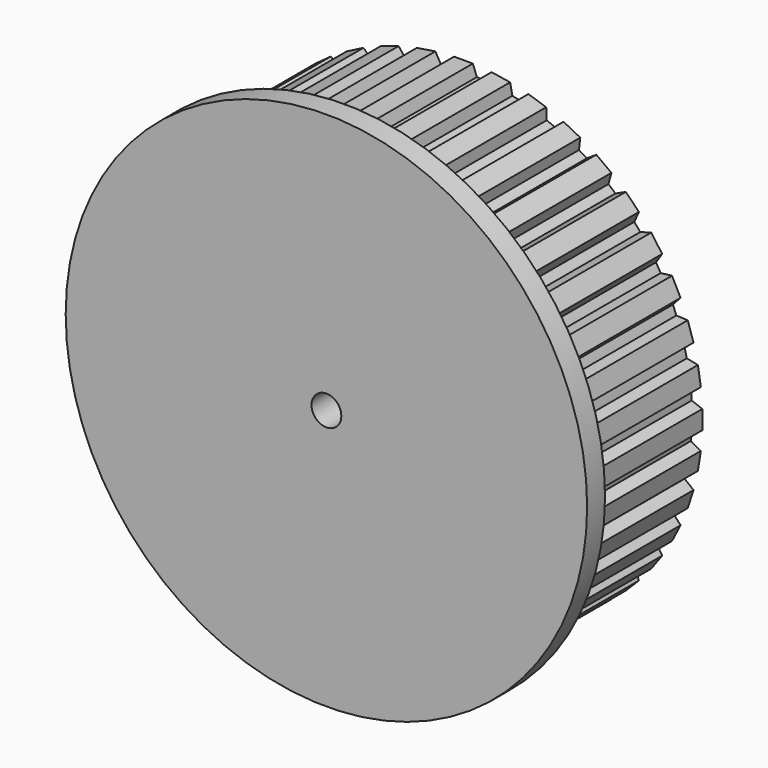
from build123d import *

# Parameters (mm, degrees)
F0_R     = 2
F1_DEPTH = 20
F2_R     = 35
F2_R_2   = 2
F3_DEPTH = 3


with BuildPart() as f1:
    # F0 (on Front) → F1 (new body)
    with BuildSketch(Plane.XZ):
        with BuildLine():
            ThreePointArc((30.632544, -1.793454), (30.671883, -0.89711), (30.685, 0))
            ThreePointArc((30.685, 0), (30.671883, 0.89711), (30.632544, 1.793454))
            ThreePointArc((30.632544, 1.793454), (30.590408, 2.407517), (30.535964, 3.020612))
            ThreePointArc((30.535964, 3.020612), (30.307217, 4.800192), (29.974849, 6.563359))
            ThreePointArc((29.974849, 6.563359), (29.837171, 7.163271), (29.687488, 7.760301))
            ThreePointArc((29.687488, 7.760301), (29.183169, 9.482186), (28.579073, 11.171652))
            ThreePointArc((28.579073, 11.171652), (28.349243, 11.742641), (28.108007, 12.308905))
            ThreePointArc((28.108007, 12.308905), (27.340535, 13.930698), (26.479586, 15.504863))
            ThreePointArc((26.479586, 15.504863), (26.163263, 16.032868), (25.836414, 16.554423))
            ThreePointArc((25.836414, 16.554423), (24.824686, 18.03619), (23.728083, 19.456292))
            ThreePointArc((23.728083, 19.456292), (23.333057, 19.928313), (22.928643, 20.392316))
            ThreePointArc((22.928643, 20.392316), (21.697572, 21.697572), (20.392316, 22.928643))
            ThreePointArc((20.392316, 22.928643), (19.928313, 23.333057), (19.456292, 23.728083))
            ThreePointArc((19.456292, 23.728083), (18.03619, 24.824686), (16.554423, 25.836414))
            ThreePointArc((16.554423, 25.836414), (16.032868, 26.163263), (15.504863, 26.479586))
            ThreePointArc((15.504863, 26.479586), (13.930698, 27.340535), (12.308905, 28.108007))
            ThreePointArc((12.308905, 28.108007), (11.742641, 28.349243), (11.171652, 28.579073))
            ThreePointArc((11.171652, 28.579073), (9.482186, 29.183169), (7.760301, 29.687488))
            ThreePointArc((7.760301, 29.687488), (7.163271, 29.837171), (6.563359, 29.974849))
            ThreePointArc((6.563359, 29.974849), (4.800192, 30.307217), (3.020612, 30.535964))
            ThreePointArc((3.020612, 30.535964), (2.407517, 30.590408), (1.793454, 30.632544))
            ThreePointArc((1.793454, 30.632544), (0, 30.685), (-1.793454, 30.632544))
            ThreePointArc((-1.793454, 30.632544), (-2.407517, 30.590408), (-3.020612, 30.535964))
            ThreePointArc((-3.020612, 30.535964), (-4.800192, 30.307217), (-6.563359, 29.974849))
            ThreePointArc((-6.563359, 29.974849), (-7.163271, 29.837171), (-7.760301, 29.687488))
            ThreePointArc((-7.760301, 29.687488), (-9.482186, 29.183169), (-11.171652, 28.579073))
            ThreePointArc((-11.171652, 28.579073), (-11.742641, 28.349243), (-12.308905, 28.108007))
            ThreePointArc((-12.308905, 28.108007), (-13.930698, 27.340535), (-15.504863, 26.479586))
            ThreePointArc((-15.504863, 26.479586), (-16.032868, 26.163263), (-16.554423, 25.836414))
            ThreePointArc((-16.554423, 25.836414), (-18.03619, 24.824686), (-19.456292, 23.728083))
            ThreePointArc((-19.456292, 23.728083), (-19.928313, 23.333057), (-20.392316, 22.928643))
            ThreePointArc((-20.392316, 22.928643), (-21.697572, 21.697572), (-22.928643, 20.392316))
            ThreePointArc((-22.928643, 20.392316), (-23.333057, 19.928313), (-23.728083, 19.456292))
            ThreePointArc((-23.728083, 19.456292), (-24.824686, 18.03619), (-25.836414, 16.554423))
            ThreePointArc((-25.836414, 16.554423), (-26.163263, 16.032868), (-26.479586, 15.504863))
            ThreePointArc((-26.479586, 15.504863), (-27.340535, 13.930698), (-28.108007, 12.308905))
            ThreePointArc((-28.108007, 12.308905), (-28.349243, 11.742641), (-28.579073, 11.171652))
            ThreePointArc((-28.579073, 11.171652), (-29.183169, 9.482186), (-29.687488, 7.760301))
            ThreePointArc((-29.687488, 7.760301), (-29.837171, 7.163271), (-29.974849, 6.563359))
            ThreePointArc((-29.974849, 6.563359), (-30.307217, 4.800192), (-30.535964, 3.020612))
            ThreePointArc((-30.535964, 3.020612), (-30.590408, 2.407517), (-30.632544, 1.793454))
            ThreePointArc((-30.632544, 1.793454), (-30.685, 0), (-30.632544, -1.793454))
            ThreePointArc((-30.632544, -1.793454), (-30.590408, -2.407517), (-30.535964, -3.020612))
            ThreePointArc((-30.535964, -3.020612), (-30.307217, -4.800192), (-29.974849, -6.563359))
            ThreePointArc((-29.974849, -6.563359), (-29.837171, -7.163271), (-29.687488, -7.760301))
            ThreePointArc((-29.687488, -7.760301), (-29.183169, -9.482186), (-28.579073, -11.171652))
            ThreePointArc((-28.579073, -11.171652), (-28.349243, -11.742641), (-28.108007, -12.308905))
            ThreePointArc((-28.108007, -12.308905), (-27.340535, -13.930698), (-26.479586, -15.504863))
            ThreePointArc((-26.479586, -15.504863), (-26.163263, -16.032868), (-25.836414, -16.554423))
            ThreePointArc((-25.836414, -16.554423), (-24.824686, -18.03619), (-23.728083, -19.456292))
            ThreePointArc((-23.728083, -19.456292), (-23.333057, -19.928313), (-22.928643, -20.392316))
            ThreePointArc((-22.928643, -20.392316), (-21.697572, -21.697572), (-20.392316, -22.928643))
            ThreePointArc((-20.392316, -22.928643), (-19.928313, -23.333057), (-19.456292, -23.728083))
            ThreePointArc((-19.456292, -23.728083), (-18.03619, -24.824686), (-16.554423, -25.836414))
            ThreePointArc((-16.554423, -25.836414), (-16.032868, -26.163263), (-15.504863, -26.479586))
            ThreePointArc((-15.504863, -26.479586), (-13.930698, -27.340535), (-12.308905, -28.108007))
            ThreePointArc((-12.308905, -28.108007), (-11.742641, -28.349243), (-11.171652, -28.579073))
            ThreePointArc((-11.171652, -28.579073), (-9.482186, -29.183169), (-7.760301, -29.687488))
            ThreePointArc((-7.760301, -29.687488), (-7.163271, -29.837171), (-6.563359, -29.974849))
            ThreePointArc((-6.563359, -29.974849), (-4.800192, -30.307217), (-3.020612, -30.535964))
            ThreePointArc((-3.020612, -30.535964), (-2.407517, -30.590408), (-1.793454, -30.632544))
            ThreePointArc((-1.793454, -30.632544), (0, -30.685), (1.793454, -30.632544))
            ThreePointArc((1.793454, -30.632544), (2.407517, -30.590408), (3.020612, -30.535964))
            ThreePointArc((3.020612, -30.535964), (4.800192, -30.307217), (6.563359, -29.974849))
            ThreePointArc((6.563359, -29.974849), (7.163271, -29.837171), (7.760301, -29.687488))
            ThreePointArc((7.760301, -29.687488), (9.482186, -29.183169), (11.171652, -28.579073))
            ThreePointArc((11.171652, -28.579073), (11.742641, -28.349243), (12.308905, -28.108007))
            ThreePointArc((12.308905, -28.108007), (13.930698, -27.340535), (15.504863, -26.479586))
            ThreePointArc((15.504863, -26.479586), (16.032868, -26.163263), (16.554423, -25.836414))
            ThreePointArc((16.554423, -25.836414), (18.03619, -24.824686), (19.456292, -23.728083))
            ThreePointArc((19.456292, -23.728083), (19.928313, -23.333057), (20.392316, -22.928643))
            ThreePointArc((20.392316, -22.928643), (21.697572, -21.697572), (22.928643, -20.392316))
            ThreePointArc((22.928643, -20.392316), (23.333057, -19.928313), (23.728083, -19.456292))
            ThreePointArc((23.728083, -19.456292), (24.824686, -18.03619), (25.836414, -16.554423))
            ThreePointArc((25.836414, -16.554423), (26.163263, -16.032868), (26.479586, -15.504863))
            ThreePointArc((26.479586, -15.504863), (27.340535, -13.930698), (28.108007, -12.308905))
            ThreePointArc((28.108007, -12.308905), (28.349243, -11.742641), (28.579073, -11.171652))
            ThreePointArc((28.579073, -11.171652), (29.183169, -9.482186), (29.687488, -7.760301))
            ThreePointArc((29.687488, -7.760301), (29.837171, -7.163271), (29.974849, -6.563359))
            ThreePointArc((29.974849, -6.563359), (30.307217, -4.800192), (30.535964, -3.020612))
            ThreePointArc((30.535964, -3.020612), (30.590408, -2.407517), (30.632544, -1.793454))
        make_face()
        Circle(F0_R, mode=Mode.SUBTRACT)
        with BuildLine():
            ThreePointArc((30.632544, 1.793454), (30.671883, 0.89711), (30.685, 0))
            ThreePointArc((30.685, 0), (30.671883, -0.89711), (30.632544, -1.793454))
            Line((30.632544, -1.793454), (32.060264, -1.259651))
            Line((32.060264, -1.259651), (32.060264, 1.259651))
            Line((32.060264, 1.259651), (30.632544, 1.793454))
        make_face()
        with BuildLine():
            ThreePointArc((29.974849, 6.563359), (30.307217, 4.800192), (30.535964, 3.020612))
            Line((30.535964, 3.020612), (31.862601, 3.771187))
            Line((31.862601, 3.771187), (31.468496, 6.259473))
            Line((31.468496, 6.259473), (29.974849, 6.563359))
        make_face()
        with BuildLine():
            Line((31.862601, -3.771187), (30.535964, -3.020612))
            ThreePointArc((30.535964, -3.020612), (30.307217, -4.800192), (29.974849, -6.563359))
            Line((29.974849, -6.563359), (31.468496, -6.259473))
            Line((31.468496, -6.259473), (31.862601, -3.771187))
        make_face()
        with BuildLine():
            ThreePointArc((28.579073, 11.171652), (29.183169, 9.482186), (29.687488, 7.760301))
            Line((29.687488, 7.760301), (30.880376, 8.709167))
            Line((30.880376, 8.709167), (30.101869, 11.105166))
            Line((30.101869, 11.105166), (28.579073, 11.171652))
        make_face()
        with BuildLine():
            Line((30.880376, -8.709167), (29.687488, -7.760301))
            ThreePointArc((29.687488, -7.760301), (29.183169, -9.482186), (28.579073, -11.171652))
            Line((28.579073, -11.171652), (30.101869, -11.105166))
            Line((30.101869, -11.105166), (30.880376, -8.709167))
        make_face()
        with BuildLine():
            ThreePointArc((26.479586, 15.504863), (27.340535, 13.930698), (28.108007, 12.308905))
            Line((28.108007, 12.308905), (29.137774, 13.432698))
            Line((29.137774, 13.432698), (27.994034, 15.677413))
            Line((27.994034, 15.677413), (26.479586, 15.504863))
        make_face()
        with BuildLine():
            Line((29.137774, -13.432698), (28.108007, -12.308905))
            ThreePointArc((28.108007, -12.308905), (27.340535, -13.930698), (26.479586, -15.504863))
            Line((26.479586, -15.504863), (27.994034, -15.677413))
            Line((27.994034, -15.677413), (29.137774, -13.432698))
        make_face()
        with BuildLine():
            ThreePointArc((23.728083, 19.456292), (24.824686, 18.03619), (25.836414, 16.554423))
            Line((25.836414, 16.554423), (26.677703, 17.825471))
            Line((26.677703, 17.825471), (25.196894, 19.863629))
            Line((25.196894, 19.863629), (23.728083, 19.456292))
        make_face()
        with BuildLine():
            Line((26.677703, -17.825471), (25.836414, -16.554423))
            ThreePointArc((25.836414, -16.554423), (24.824686, -18.03619), (23.728083, -19.456292))
            Line((23.728083, -19.456292), (25.196894, -19.863629))
            Line((25.196894, -19.863629), (26.677703, -17.825471))
        make_face()
        with BuildLine():
            ThreePointArc((20.392316, 22.928643), (21.697572, 21.697572), (22.928643, 20.392316))
            Line((22.928643, 20.392316), (23.560738, 21.779322))
            Line((23.560738, 21.779322), (21.779322, 23.560738))
            Line((21.779322, 23.560738), (20.392316, 22.928643))
        make_face()
        with BuildLine():
            Line((23.560738, -21.779322), (22.928643, -20.392316))
            ThreePointArc((22.928643, -20.392316), (21.697572, -21.697572), (20.392316, -22.928643))
            Line((20.392316, -22.928643), (21.779322, -23.560738))
            Line((21.779322, -23.560738), (23.560738, -21.779322))
        make_face()
        with BuildLine():
            ThreePointArc((16.554423, 25.836414), (18.03619, 24.824686), (19.456292, 23.728083))
            Line((19.456292, 23.728083), (19.863629, 25.196894))
            Line((19.863629, 25.196894), (17.825471, 26.677703))
            Line((17.825471, 26.677703), (16.554423, 25.836414))
        make_face()
        with BuildLine():
            Line((19.863629, -25.196894), (19.456292, -23.728083))
            ThreePointArc((19.456292, -23.728083), (18.03619, -24.824686), (16.554423, -25.836414))
            Line((16.554423, -25.836414), (17.825471, -26.677703))
            Line((17.825471, -26.677703), (19.863629, -25.196894))
        make_face()
        with BuildLine():
            ThreePointArc((12.308905, 28.108007), (13.930698, 27.340535), (15.504863, 26.479586))
            Line((15.504863, 26.479586), (15.677413, 27.994034))
            Line((15.677413, 27.994034), (13.432698, 29.137774))
            Line((13.432698, 29.137774), (12.308905, 28.108007))
        make_face()
        with BuildLine():
            Line((15.677413, -27.994034), (15.504863, -26.479586))
            ThreePointArc((15.504863, -26.479586), (13.930698, -27.340535), (12.308905, -28.108007))
            Line((12.308905, -28.108007), (13.432698, -29.137774))
            Line((13.432698, -29.137774), (15.677413, -27.994034))
        make_face()
        with BuildLine():
            ThreePointArc((7.760301, 29.687488), (9.482186, 29.183169), (11.171652, 28.579073))
            Line((11.171652, 28.579073), (11.105166, 30.101869))
            Line((11.105166, 30.101869), (8.709167, 30.880376))
            Line((8.709167, 30.880376), (7.760301, 29.687488))
        make_face()
        with BuildLine():
            Line((11.105166, -30.101869), (11.171652, -28.579073))
            ThreePointArc((11.171652, -28.579073), (9.482186, -29.183169), (7.760301, -29.687488))
            Line((7.760301, -29.687488), (8.709167, -30.880376))
            Line((8.709167, -30.880376), (11.105166, -30.101869))
        make_face()
        with BuildLine():
            ThreePointArc((3.020612, 30.535964), (4.800192, 30.307217), (6.563359, 29.974849))
            Line((6.563359, 29.974849), (6.259473, 31.468496))
            Line((6.259473, 31.468496), (3.771187, 31.862601))
            Line((3.771187, 31.862601), (3.020612, 30.535964))
        make_face()
        with BuildLine():
            Line((6.259473, -31.468496), (6.563359, -29.974849))
            ThreePointArc((6.563359, -29.974849), (4.800192, -30.307217), (3.020612, -30.535964))
            Line((3.020612, -30.535964), (3.771187, -31.862601))
            Line((3.771187, -31.862601), (6.259473, -31.468496))
        make_face()
        with BuildLine():
            ThreePointArc((-1.793454, 30.632544), (0, 30.685), (1.793454, 30.632544))
            Line((1.793454, 30.632544), (1.259651, 32.060264))
            Line((1.259651, 32.060264), (-1.259651, 32.060264))
            Line((-1.259651, 32.060264), (-1.793454, 30.632544))
        make_face()
        with BuildLine():
            Line((1.259651, -32.060264), (1.793454, -30.632544))
            ThreePointArc((1.793454, -30.632544), (0, -30.685), (-1.793454, -30.632544))
            Line((-1.793454, -30.632544), (-1.259651, -32.060264))
            Line((-1.259651, -32.060264), (1.259651, -32.060264))
        make_face()
        with BuildLine():
            ThreePointArc((-6.563359, 29.974849), (-4.800192, 30.307217), (-3.020612, 30.535964))
            Line((-3.020612, 30.535964), (-3.771187, 31.862601))
            Line((-3.771187, 31.862601), (-6.259473, 31.468496))
            Line((-6.259473, 31.468496), (-6.563359, 29.974849))
        make_face()
        with BuildLine():
            Line((-3.771187, -31.862601), (-3.020612, -30.535964))
            ThreePointArc((-3.020612, -30.535964), (-4.800192, -30.307217), (-6.563359, -29.974849))
            Line((-6.563359, -29.974849), (-6.259473, -31.468496))
            Line((-6.259473, -31.468496), (-3.771187, -31.862601))
        make_face()
        with BuildLine():
            ThreePointArc((-11.171652, 28.579073), (-9.482186, 29.183169), (-7.760301, 29.687488))
            Line((-7.760301, 29.687488), (-8.709167, 30.880376))
            Line((-8.709167, 30.880376), (-11.105166, 30.101869))
            Line((-11.105166, 30.101869), (-11.171652, 28.579073))
        make_face()
        with BuildLine():
            Line((-8.709167, -30.880376), (-7.760301, -29.687488))
            ThreePointArc((-7.760301, -29.687488), (-9.482186, -29.183169), (-11.171652, -28.579073))
            Line((-11.171652, -28.579073), (-11.105166, -30.101869))
            Line((-11.105166, -30.101869), (-8.709167, -30.880376))
        make_face()
        with BuildLine():
            ThreePointArc((-15.504863, 26.479586), (-13.930698, 27.340535), (-12.308905, 28.108007))
            Line((-12.308905, 28.108007), (-13.432698, 29.137774))
            Line((-13.432698, 29.137774), (-15.677413, 27.994034))
            Line((-15.677413, 27.994034), (-15.504863, 26.479586))
        make_face()
        with BuildLine():
            Line((-13.432698, -29.137774), (-12.308905, -28.108007))
            ThreePointArc((-12.308905, -28.108007), (-13.930698, -27.340535), (-15.504863, -26.479586))
            Line((-15.504863, -26.479586), (-15.677413, -27.994034))
            Line((-15.677413, -27.994034), (-13.432698, -29.137774))
        make_face()
        with BuildLine():
            ThreePointArc((-19.456292, 23.728083), (-18.03619, 24.824686), (-16.554423, 25.836414))
            Line((-16.554423, 25.836414), (-17.825471, 26.677703))
            Line((-17.825471, 26.677703), (-19.863629, 25.196894))
            Line((-19.863629, 25.196894), (-19.456292, 23.728083))
        make_face()
        with BuildLine():
            Line((-17.825471, -26.677703), (-16.554423, -25.836414))
            ThreePointArc((-16.554423, -25.836414), (-18.03619, -24.824686), (-19.456292, -23.728083))
            Line((-19.456292, -23.728083), (-19.863629, -25.196894))
            Line((-19.863629, -25.196894), (-17.825471, -26.677703))
        make_face()
        with BuildLine():
            ThreePointArc((-22.928643, 20.392316), (-21.697572, 21.697572), (-20.392316, 22.928643))
            Line((-20.392316, 22.928643), (-21.779322, 23.560738))
            Line((-21.779322, 23.560738), (-23.560738, 21.779322))
            Line((-23.560738, 21.779322), (-22.928643, 20.392316))
        make_face()
        with BuildLine():
            Line((-21.779322, -23.560738), (-20.392316, -22.928643))
            ThreePointArc((-20.392316, -22.928643), (-21.697572, -21.697572), (-22.928643, -20.392316))
            Line((-22.928643, -20.392316), (-23.560738, -21.779322))
            Line((-23.560738, -21.779322), (-21.779322, -23.560738))
        make_face()
        with BuildLine():
            ThreePointArc((-25.836414, 16.554423), (-24.824686, 18.03619), (-23.728083, 19.456292))
            Line((-23.728083, 19.456292), (-25.196894, 19.863629))
            Line((-25.196894, 19.863629), (-26.677703, 17.825471))
            Line((-26.677703, 17.825471), (-25.836414, 16.554423))
        make_face()
        with BuildLine():
            Line((-25.196894, -19.863629), (-23.728083, -19.456292))
            ThreePointArc((-23.728083, -19.456292), (-24.824686, -18.03619), (-25.836414, -16.554423))
            Line((-25.836414, -16.554423), (-26.677703, -17.825471))
            Line((-26.677703, -17.825471), (-25.196894, -19.863629))
        make_face()
        with BuildLine():
            ThreePointArc((-28.108007, 12.308905), (-27.340535, 13.930698), (-26.479586, 15.504863))
            Line((-26.479586, 15.504863), (-27.994034, 15.677413))
            Line((-27.994034, 15.677413), (-29.137774, 13.432698))
            Line((-29.137774, 13.432698), (-28.108007, 12.308905))
        make_face()
        with BuildLine():
            Line((-27.994034, -15.677413), (-26.479586, -15.504863))
            ThreePointArc((-26.479586, -15.504863), (-27.340535, -13.930698), (-28.108007, -12.308905))
            Line((-28.108007, -12.308905), (-29.137774, -13.432698))
            Line((-29.137774, -13.432698), (-27.994034, -15.677413))
        make_face()
        with BuildLine():
            ThreePointArc((-29.687488, 7.760301), (-29.183169, 9.482186), (-28.579073, 11.171652))
            Line((-28.579073, 11.171652), (-30.101869, 11.105166))
            Line((-30.101869, 11.105166), (-30.880376, 8.709167))
            Line((-30.880376, 8.709167), (-29.687488, 7.760301))
        make_face()
        with BuildLine():
            Line((-30.101869, -11.105166), (-28.579073, -11.171652))
            ThreePointArc((-28.579073, -11.171652), (-29.183169, -9.482186), (-29.687488, -7.760301))
            Line((-29.687488, -7.760301), (-30.880376, -8.709167))
            Line((-30.880376, -8.709167), (-30.101869, -11.105166))
        make_face()
        with BuildLine():
            ThreePointArc((-30.535964, 3.020612), (-30.307217, 4.800192), (-29.974849, 6.563359))
            Line((-29.974849, 6.563359), (-31.468496, 6.259473))
            Line((-31.468496, 6.259473), (-31.862601, 3.771187))
            Line((-31.862601, 3.771187), (-30.535964, 3.020612))
        make_face()
        with BuildLine():
            Line((-31.468496, -6.259473), (-29.974849, -6.563359))
            ThreePointArc((-29.974849, -6.563359), (-30.307217, -4.800192), (-30.535964, -3.020612))
            Line((-30.535964, -3.020612), (-31.862601, -3.771187))
            Line((-31.862601, -3.771187), (-31.468496, -6.259473))
        make_face()
        with BuildLine():
            ThreePointArc((-30.632544, -1.793454), (-30.685, 0), (-30.632544, 1.793454))
            Line((-30.632544, 1.793454), (-32.060264, 1.259651))
            Line((-32.060264, 1.259651), (-32.060264, -1.259651))
            Line((-32.060264, -1.259651), (-30.632544, -1.793454))
        make_face()
    extrude(amount=F1_DEPTH)

    # F2 (on face) → F3 (join)
    with BuildSketch(Plane.XZ.offset(20)):
        Circle(F2_R)
        Circle(F2_R_2, mode=Mode.SUBTRACT)
    extrude(amount=F3_DEPTH)


solid = f1.part
